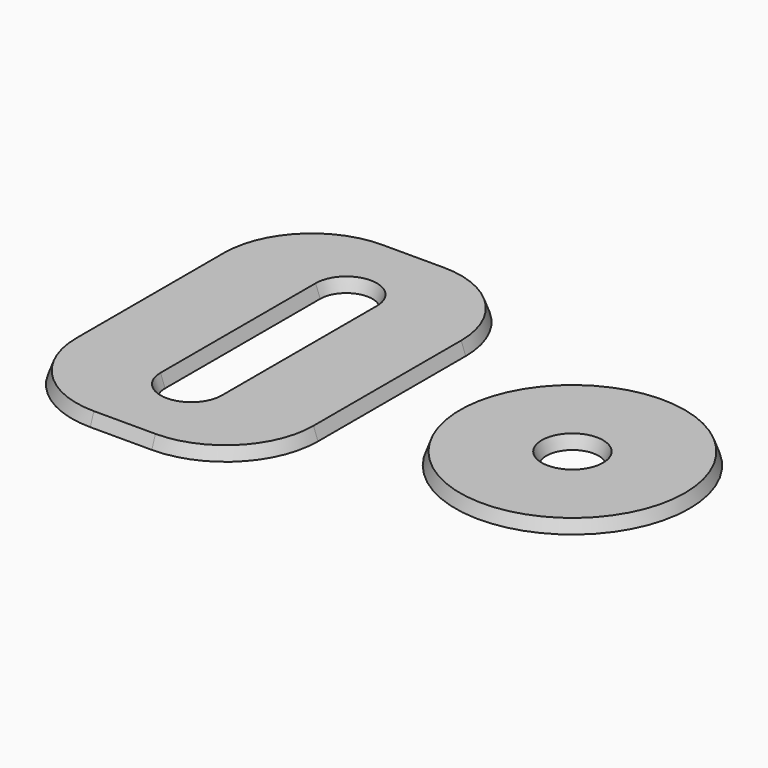
from build123d import *

# Parameters (mm, degrees)
F1_DEPTH = 2
F1_TAPER = 20
F0_R     = 19
F0_R_2   = 4.25
F2_DEPTH = 2
F2_TAPER = 20


with BuildPart() as f1:
    # F0 (on Top) → F1 (new body)
    with BuildSketch(Plane.XY):
        with BuildLine():
            ThreePointArc((20, 15), (15.6066017178, 25.6066017178), (5, 30))
            Line((5, 30), (-5, 30))
            ThreePointArc((-5, 30), (-15.6066017178, 25.6066017178), (-20, 15))
            Line((-20, 15), (-20, -15))
            ThreePointArc((-20, -15), (-15.6066017178, -25.6066017178), (-5, -30))
            Line((-5, -30), (5, -30))
            ThreePointArc((5, -30), (15.6066017178, -25.6066017178), (20, -15))
            Line((20, -15), (20, 15))
        make_face()
        with BuildLine():
            ThreePointArc((-4.25, 15.75), (0, 20), (4.25, 15.75))
            Line((4.25, 15.75), (4.25, -15.75))
            ThreePointArc((4.25, -15.75), (0, -20), (-4.25, -15.75))
            Line((-4.25, -15.75), (-4.25, 15.75))
        make_face(mode=Mode.SUBTRACT)
    extrude(amount=F1_DEPTH, taper=F1_TAPER)


with BuildPart() as f2:
    # F0 (on Top) → F2 (new body)
    with BuildSketch(Plane.XY):
        with Locations((49.3462421, 0)):
            Circle(F0_R)
        with Locations((49.3462421, 0)):
            Circle(F0_R_2, mode=Mode.SUBTRACT)
    extrude(amount=F2_DEPTH, taper=F2_TAPER)


solid = Compound([f1.part, f2.part])
